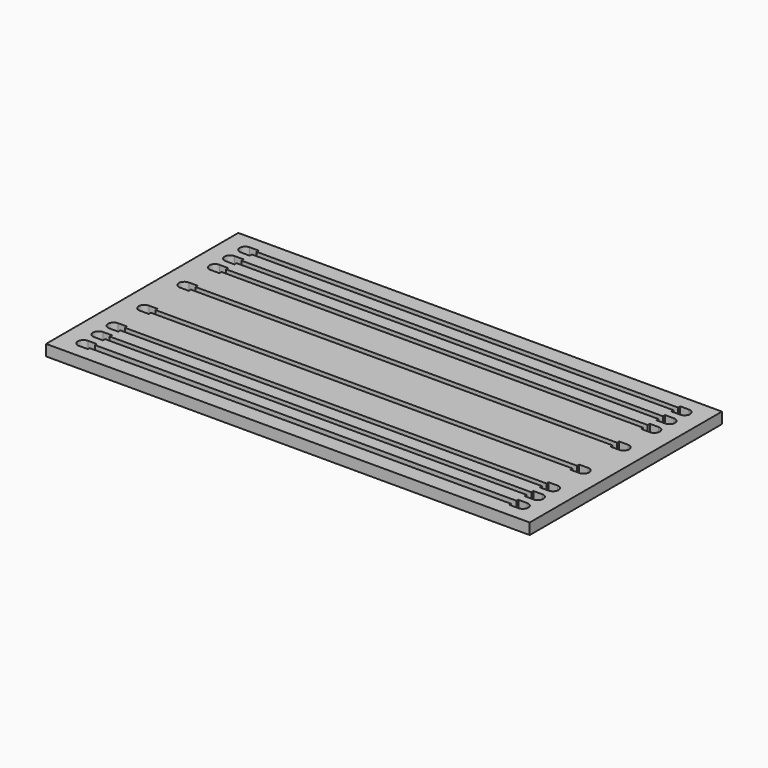
from build123d import *

# Parameters (mm, degrees)
F1_W     = 1091
F1_H     = 542
F2_DEPTH = 25


with BuildPart() as f2:
    # F1 (on face) → F2 (new body)
    with BuildSketch(Plane.XY):
        with Locations((545.5, 271)):
            Rectangle(F1_W, F1_H)
        with BuildLine():
            Line((70, 30.25), (50, 30.25))
            ThreePointArc((50, 30.25), (37.5, 42.75), (50, 55.25))
            Line((50, 55.25), (70, 55.25))
            Line((70, 55.25), (70, 50.25))
            Line((70, 50.25), (1021, 50.25))
            Line((1021, 50.25), (1021, 55.25))
            Line((1021, 55.25), (1041, 55.25))
            ThreePointArc((1041, 55.25), (1053.5, 42.75), (1041, 30.25))
            Line((1041, 30.25), (1021, 30.25))
            Line((1021, 30.25), (1021, 35.25))
            Line((1021, 35.25), (70, 35.25))
            Line((70, 35.25), (70, 30.25))
        make_face(mode=Mode.SUBTRACT)
        with BuildLine():
            Line((70, 73), (50, 73))
            ThreePointArc((50, 73), (37.5, 85.5), (50, 98))
            Line((50, 98), (70, 98))
            Line((70, 98), (70, 92))
            Line((70, 92), (1021, 92))
            Line((1021, 92), (1021, 98))
            Line((1021, 98), (1041, 98))
            ThreePointArc((1041, 98), (1053.5, 85.5), (1041, 73))
            Line((1041, 73), (1021, 73))
            Line((1021, 73), (1021, 79))
            Line((1021, 79), (70, 79))
            Line((70, 79), (70, 73))
        make_face(mode=Mode.SUBTRACT)
        with BuildLine():
            Line((70, 115.75), (50, 115.75))
            ThreePointArc((50, 115.75), (37.5, 128.25), (50, 140.75))
            Line((50, 140.75), (70, 140.75))
            Line((70, 140.75), (70, 134.75))
            Line((70, 134.75), (1021, 134.75))
            Line((1021, 134.75), (1021, 140.75))
            Line((1021, 140.75), (1041, 140.75))
            ThreePointArc((1041, 140.75), (1053.5, 128.25), (1041, 115.75))
            Line((1041, 115.75), (1021, 115.75))
            Line((1021, 115.75), (1021, 121.75))
            Line((1021, 121.75), (70, 121.75))
            Line((70, 121.75), (70, 115.75))
        make_face(mode=Mode.SUBTRACT)
        with BuildLine():
            Line((70, 202.061247), (50, 202.061247))
            ThreePointArc((50, 202.061247), (37.5, 214.561247), (50, 227.061247))
            Line((50, 227.061247), (70, 227.061247))
            Line((70, 227.061247), (70, 221.061247))
            Line((70, 221.061247), (1021, 221.061247))
            Line((1021, 221.061247), (1021, 227.061247))
            Line((1021, 227.061247), (1041, 227.061247))
            ThreePointArc((1041, 227.061247), (1053.5, 214.561247), (1041, 202.061247))
            Line((1041, 202.061247), (1021, 202.061247))
            Line((1021, 202.061247), (1021, 208.061247))
            Line((1021, 208.061247), (70, 208.061247))
            Line((70, 208.061247), (70, 202.061247))
        make_face(mode=Mode.SUBTRACT)
        with BuildLine():
            Line((70, 314.938753), (50, 314.938753))
            ThreePointArc((50, 314.938753), (37.5, 327.438753), (50, 339.938753))
            Line((50, 339.938753), (70, 339.938753))
            Line((70, 339.938753), (70, 333.938753))
            Line((70, 333.938753), (1021, 333.938753))
            Line((1021, 333.938753), (1021, 339.938753))
            Line((1021, 339.938753), (1041, 339.938753))
            ThreePointArc((1041, 339.938753), (1053.5, 327.438753), (1041, 314.938753))
            Line((1041, 314.938753), (1021, 314.938753))
            Line((1021, 314.938753), (1021, 320.938753))
            Line((1021, 320.938753), (70, 320.938753))
            Line((70, 320.938753), (70, 314.938753))
        make_face(mode=Mode.SUBTRACT)
        with BuildLine():
            Line((70, 401.25), (50, 401.25))
            ThreePointArc((50, 401.25), (37.5, 413.75), (50, 426.25))
            Line((50, 426.25), (70, 426.25))
            Line((70, 426.25), (70, 420.25))
            Line((70, 420.25), (1021, 420.25))
            Line((1021, 420.25), (1021, 426.25))
            Line((1021, 426.25), (1041, 426.25))
            ThreePointArc((1041, 426.25), (1053.5, 413.75), (1041, 401.25))
            Line((1041, 401.25), (1021, 401.25))
            Line((1021, 401.25), (1021, 407.25))
            Line((1021, 407.25), (70, 407.25))
            Line((70, 407.25), (70, 401.25))
        make_face(mode=Mode.SUBTRACT)
        with BuildLine():
            Line((70, 444), (50, 444))
            ThreePointArc((50, 444), (37.5, 456.5), (50, 469))
            Line((50, 469), (70, 469))
            Line((70, 469), (70, 463))
            Line((70, 463), (1021, 463))
            Line((1021, 463), (1021, 469))
            Line((1021, 469), (1041, 469))
            ThreePointArc((1041, 469), (1053.5, 456.5), (1041, 444))
            Line((1041, 444), (1021, 444))
            Line((1021, 444), (1021, 450))
            Line((1021, 450), (70, 450))
            Line((70, 450), (70, 444))
        make_face(mode=Mode.SUBTRACT)
        with BuildLine():
            Line((70, 486.75), (50, 486.75))
            ThreePointArc((50, 486.75), (37.5, 499.25), (50, 511.75))
            Line((50, 511.75), (70, 511.75))
            Line((70, 511.75), (70, 505.75))
            Line((70, 505.75), (1021, 505.75))
            Line((1021, 505.75), (1021, 511.75))
            Line((1021, 511.75), (1041, 511.75))
            ThreePointArc((1041, 511.75), (1053.5, 499.25), (1041, 486.75))
            Line((1041, 486.75), (1021, 486.75))
            Line((1021, 486.75), (1021, 492.75))
            Line((1021, 492.75), (70, 492.75))
            Line((70, 492.75), (70, 486.75))
        make_face(mode=Mode.SUBTRACT)
    extrude(amount=F2_DEPTH)


solid = f2.part
